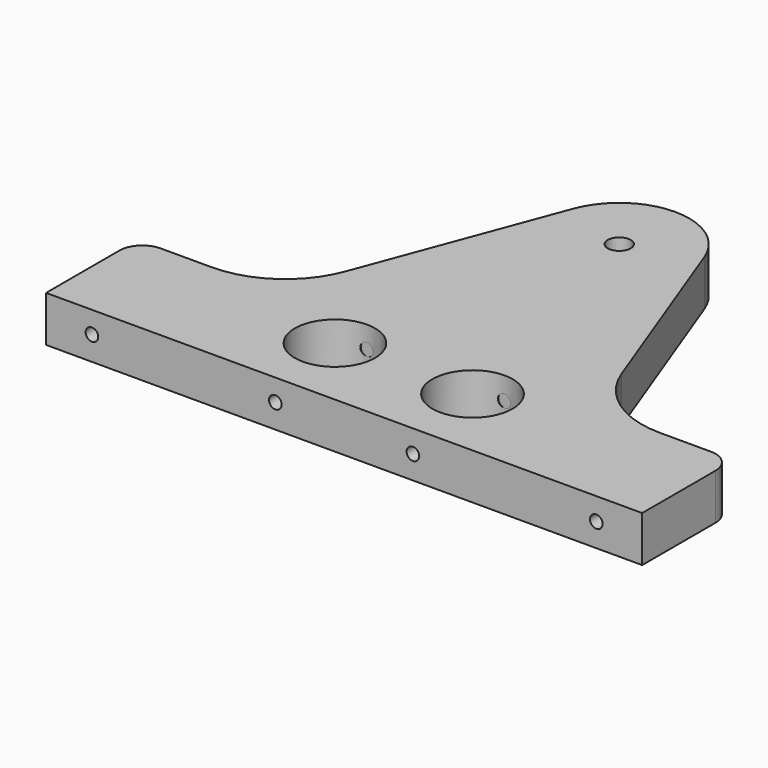
from build123d import *

# Parameters (mm, degrees)
F0_R     = 17.5
F0_R_2   = 5
F1_DEPTH = 20
F2_R     = 2.75
F3_DEPTH = 50.001
F4_R     = 40
F5_R     = 10


with BuildPart() as f1:
    # F0 (on Top) → F1 (new body)
    with BuildSketch(Plane.XY):
        with BuildLine():
            Line((-130, 0), (130, 0))
            Line((130, 0), (130, 50))
            Line((130, 50), (70, 50))
            Line((70, 50), (28.564314, 160.69252))
            ThreePointArc((28.564314, 160.69252), (0, 180.5), (-28.564314, 160.69252))
            Line((-28.564314, 160.69252), (-70, 50))
            Line((-70, 50), (-130, 50))
            Line((-130, 50), (-130, 0))
        make_face()
        with Locations((-30, 32.5)):
            Circle(F0_R, mode=Mode.SUBTRACT)
        with Locations((30, 32.5)):
            Circle(F0_R, mode=Mode.SUBTRACT)
        with Locations((0, 150)):
            Circle(F0_R_2, mode=Mode.SUBTRACT)
    extrude(amount=F1_DEPTH)

    # F2 (on face) → F3 (cut, through all)
    with BuildSketch(Plane(origin=(0, 50, 0), x_dir=(-1, 0, 0), z_dir=(0, 1, 0))):
        with Locations((-110, 10.207103)):
            Circle(F2_R)
        with Locations((110, 10.485964)):
            Circle(F2_R)
        with Locations((-30, 10.207103)):
            Circle(F2_R)
        with Locations((30, 10.485964)):
            Circle(F2_R)
    extrude(amount=-F3_DEPTH, mode=Mode.SUBTRACT)

    # F4
    f4_edges = [f1.edges().sort_by_distance(p)[0] for p in [
        (70, 50, 10),
        (-70, 50, 10),
    ]]
    fillet(f4_edges, radius=F4_R)

    # F5
    f5_edges = [f1.edges().sort_by_distance(p)[0] for p in [
        (130, 50, 10),
        (-130, 50, 10),
    ]]
    fillet(f5_edges, radius=F5_R)


solid = f1.part
